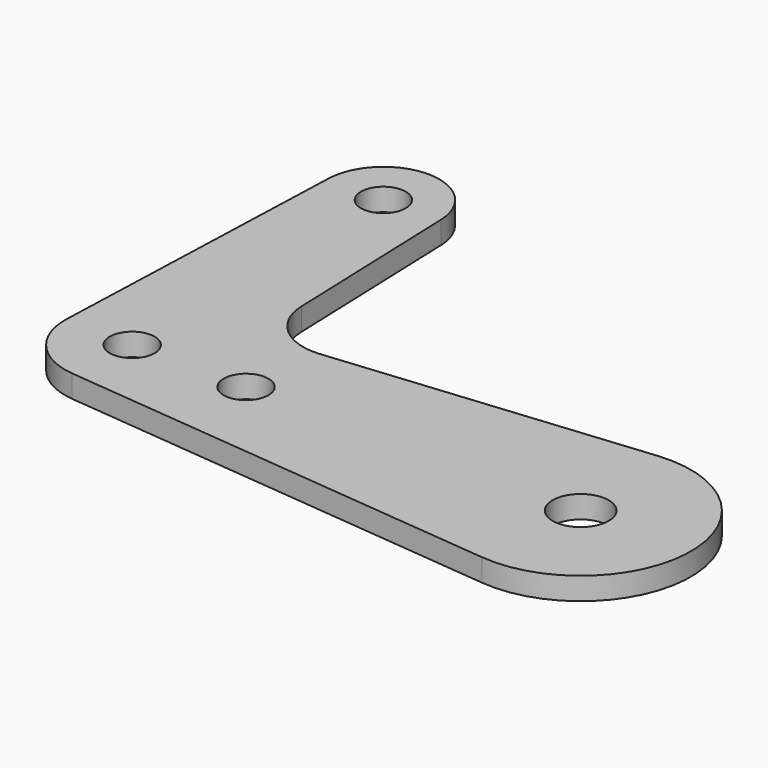
from build123d import *

# Parameters (mm, degrees)
F0_R     = 3.175
F0_R_2   = 3.96875
F1_DEPTH = 3.175
F2_R     = 7.9375


with BuildPart() as f1:
    # F0 (on Top) → F1 (new body)
    with BuildSketch(Plane.XY):
        with BuildLine():
            ThreePointArc((-7.9324362036, 44.7334821429), (-0.1417636831, 36.5137660501), (7.9375, 44.45))
            ThreePointArc((7.9375, 44.45), (7.9362339499, 44.5917636831), (7.9324362036, 44.7334821429))
            ThreePointArc((7.9324362036, 44.7334821429), (0, 52.3875), (-7.9324362036, 44.7334821429))
        make_face()
        with Locations((0, 44.45)):
            Circle(F0_R, mode=Mode.SUBTRACT)
        with BuildLine():
            ThreePointArc((7.9324362036, 44.7334821429), (7.9362339499, 44.5917636831), (7.9375, 44.45))
            ThreePointArc((7.9375, 44.45), (-0.1417636831, 36.5137660501), (-7.9324362036, 44.7334821429))
            Line((-7.9324362036, 44.7334821429), (-9.5189234444, 0.3401785714))
            ThreePointArc((-9.5189234444, 0.3401785714), (-6.9355783144, 6.5286582423), (-0.9144, 9.481007206))
            Line((-0.9144, 9.481007206), (9.157542126, 10.4524001899))
            Line((9.157542126, 10.4524001899), (7.9324362036, 44.7334821429))
        make_face()
        with BuildLine():
            Line((9.51892344, 0.3401786947), (9.157542126, 10.4524001899))
            Line((9.157542126, 10.4524001899), (-0.9144, 9.481007206))
            ThreePointArc((-0.9144, 9.481007206), (6.2767939568, 7.164320109), (9.51892344, 0.3401786947))
        make_face()
        with BuildLine():
            Line((62.000384, 15.5488518178), (9.157542126, 10.4524001899))
            Line((9.157542126, 10.4524001899), (9.51892344, 0.3401786947))
            ThreePointArc((9.51892344, 0.3401786947), (9.5234807388, 0.1701164813), (9.525, 0))
            ThreePointArc((9.525, 0), (6.4037475356, -7.0510738544), (-0.9144, -9.481007206))
            Line((-0.9144, -9.481007206), (62.000384, -15.5488518178))
            ThreePointArc((62.000384, -15.5488518178), (47.879, 0), (62.000384, 15.5488518178))
        make_face()
        with Locations((16.1159988493, 0)):
            Circle(F0_R, mode=Mode.SUBTRACT)
        with BuildLine():
            ThreePointArc((-0.9144, 9.481007206), (-6.9355783144, 6.5286582423), (-9.5189234444, 0.3401785714))
            ThreePointArc((-9.5189234444, 0.3401785714), (-7.1643200684, -6.2767940031), (-0.9144, -9.481007206))
            ThreePointArc((-0.9144, -9.481007206), (6.4037475356, -7.0510738544), (9.525, 0))
            ThreePointArc((9.525, 0), (9.5234807388, 0.1701164813), (9.51892344, 0.3401786947))
            ThreePointArc((9.51892344, 0.3401786947), (6.2767939568, 7.164320109), (-0.9144, 9.481007206))
        make_face()
        Circle(F0_R, mode=Mode.SUBTRACT)
        with BuildLine():
            ThreePointArc((79.121, 0), (74.0021459584, 11.5637611212), (62.000384, 15.5488518178))
            ThreePointArc((62.000384, 15.5488518178), (47.879, 0), (62.000384, -15.5488518178))
            ThreePointArc((62.000384, -15.5488518178), (74.0021459584, -11.5637611212), (79.121, 0))
        make_face()
        with Locations((63.5, 0)):
            Circle(F0_R_2, mode=Mode.SUBTRACT)
        with BuildLine():
            ThreePointArc((-0.9144, 9.481007206), (-6.9355783144, 6.5286582423), (-9.5189234444, 0.3401785714))
            ThreePointArc((-9.5189234444, 0.3401785714), (-7.1643200684, -6.2767940031), (-0.9144, -9.481007206))
            ThreePointArc((-0.9144, -9.481007206), (6.4037475356, -7.0510738544), (9.525, 0))
            ThreePointArc((9.525, 0), (9.5234807388, 0.1701164813), (9.51892344, 0.3401786947))
            ThreePointArc((9.51892344, 0.3401786947), (6.2767939568, 7.164320109), (-0.9144, 9.481007206))
        make_face()
        Circle(F0_R, mode=Mode.SUBTRACT)
    extrude(amount=F1_DEPTH)

    # F2
    f2_edges = [f1.edges().sort_by_distance(p)[0] for p in [
        (9.157542, 10.4524, 1.5875),
    ]]
    fillet(f2_edges, radius=F2_R)


solid = f1.part
